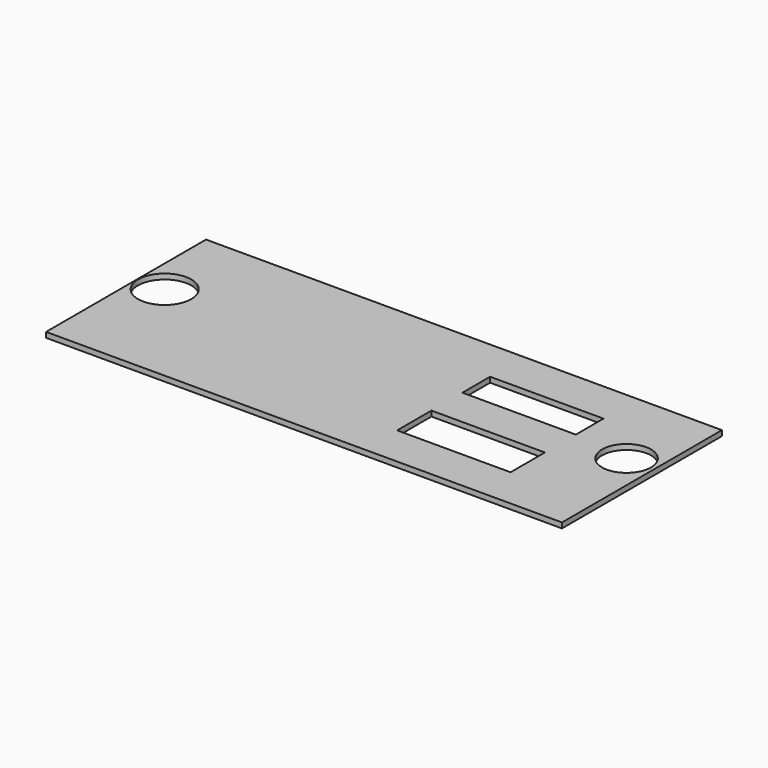
from build123d import *

# Parameters (mm, degrees)
F0_W     = 97.523712
F0_H     = 37.792742
F1_DEPTH = 1
F2_R     = 4.623594
F2_R_2   = 5.035286
F3_DEPTH = 25.4
F4_W     = 21.440587
F4_H     = 8.105589
F5_DEPTH = 25.4


with BuildPart() as f1:
    # F0 (on Top) → F1 (new body)
    with BuildSketch(Plane.XY):
        Rectangle(F0_W, F0_H)
    extrude(amount=F1_DEPTH)

    # F2 (on face) → F3 (cut)
    with BuildSketch(Plane.XY.offset(1)):
        with Locations((43.415565, 3.041855)):
            Circle(F2_R)
        with Locations((-43.599922, 2.673145)):
            Circle(F2_R_2)
    extrude(amount=-F3_DEPTH, mode=Mode.SUBTRACT)

    # F4 (on face) → F5 (cut)
    with BuildSketch(Plane.XY.offset(1)):
        Polygon((32.814559, 4.314265), (32.814559, 10.85103), (11.373972, 10.85103), (11.373972, 4.314265), (13.988677, 4.314265), align=None)
        with Locations((22.094265, -7.059706)):
            Rectangle(F4_W, F4_H)
    extrude(amount=-F5_DEPTH, mode=Mode.SUBTRACT)


solid = f1.part
